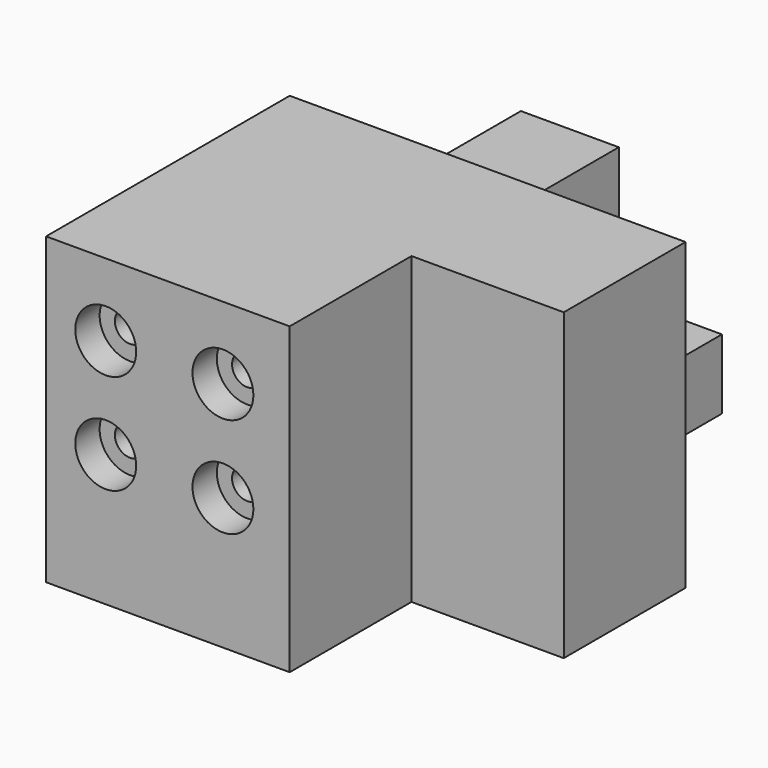
from build123d import *

# Parameters (mm, degrees)
F5_DEPTH       = 50
F2_DEPTH       = 25
F3_D           = 5
F3_CBORE_D     = 10
F3_CBORE_DEPTH = 5


with BuildPart() as f5:
    # F4 (on Top) → F5 (new body)
    with BuildSketch(Plane.XY):
        Polygon((0, 50), (0, 0), (40, 0), (40, 25), (65, 25), (65, 50), align=None)
    extrude(amount=F5_DEPTH)

    # F3 (through all)
    with Locations(Plane.XZ):
        with Locations((9.7930580378, 21.6377787292), (29.0367603302, 21.6377787292), (29.0367603302, 38.1001420319), (9.7930580378, 38.1001420319)):
            CounterBoreHole(F3_D / 2, F3_CBORE_D / 2, F3_CBORE_DEPTH)


with BuildPart() as f2:
    # F0 (on face) → F2 (new body)
    with BuildSketch(Plane(origin=(0, 50, 0), x_dir=(-1, 0, 0), z_dir=(0, 1, 0))):
        Polygon((-50.9705469012, 10.4610286653), (-17.9573744535, 10.4610286653), (-17.9573744535, 43.465744704), (-34.0392068028, 43.465744704), (-34.0392068028, 21.9214968383), (-50.9705469012, 21.9214968383), align=None)
    extrude(amount=F2_DEPTH)


solid = Compound([f5.part, f2.part])
